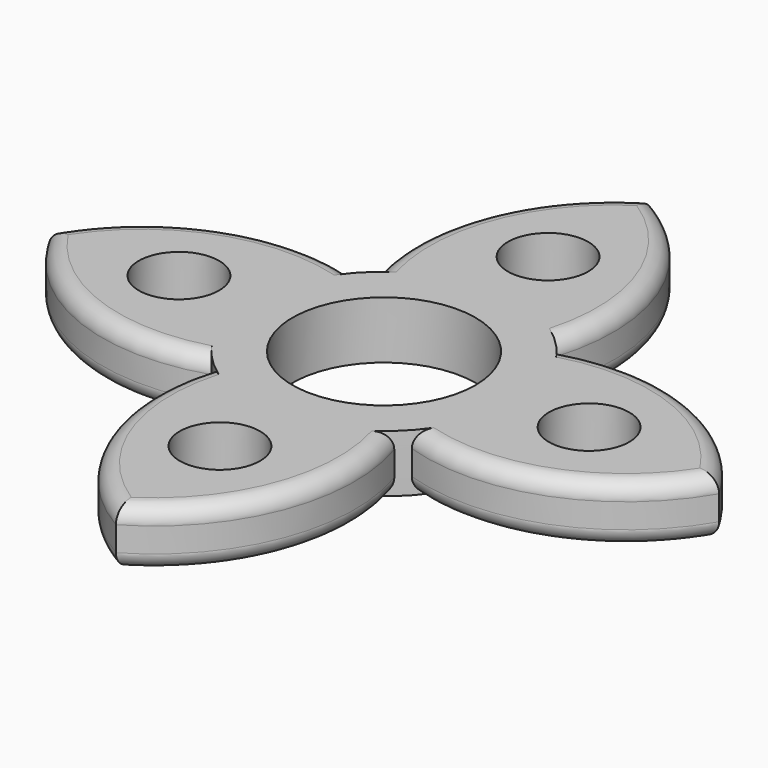
from build123d import *

# Parameters (mm, degrees)
F0_R     = 11.15
F0_R_2   = 4.9
F0_R_3   = 7.9261864564
F1_DEPTH = 7
F2_R     = 2


with BuildPart() as f1:
    # F0 (on Top) → F1 (new body)
    with BuildSketch(Plane.XY):
        with BuildLine():
            ThreePointArc((12.2001039663, -11.0155566574), (15.3414775392, -5.9011941313), (16.4373059003, 0))
            ThreePointArc((16.4373059003, 0), (15.3414775392, 5.9011941313), (12.2001039663, 11.0155566574))
            ThreePointArc((12.2001039663, 11.0155566574), (11.6229304666, 11.6229304666), (11.0155566574, 12.2001039663))
            ThreePointArc((11.0155566574, 12.2001039663), (0, 16.4373059003), (-11.0155566574, 12.2001039663))
            ThreePointArc((-11.0155566574, 12.2001039663), (-11.6229304666, 11.6229304666), (-12.2001039663, 11.0155566574))
            ThreePointArc((-12.2001039663, 11.0155566574), (-16.4373059003, 0), (-12.2001039663, -11.0155566574))
            ThreePointArc((-12.2001039663, -11.0155566574), (-11.6229304666, -11.6229304666), (-11.0155566574, -12.2001039663))
            ThreePointArc((-11.0155566574, -12.2001039663), (0, -16.4373059003), (11.0155566574, -12.2001039663))
            ThreePointArc((11.0155566574, -12.2001039663), (11.6229304666, -11.6229304666), (12.2001039663, -11.0155566574))
        make_face()
        Circle(F0_R, mode=Mode.SUBTRACT)
        with BuildLine():
            ThreePointArc((-11.0155566574, 12.2001039663), (0, 16.4373059003), (11.0155566574, 12.2001039663))
            ThreePointArc((11.0155566574, 12.2001039663), (10.5712674009, 28.4766709057), (0, 40.8610291779))
            ThreePointArc((0, 40.8610291779), (-10.5712674009, 28.4766709057), (-11.0155566574, 12.2001039663))
        make_face()
        with Locations((0, 25)):
            Circle(F0_R_2, mode=Mode.SUBTRACT)
        with BuildLine():
            ThreePointArc((0, -40.8610291779), (10.5712674009, -28.4766709057), (11.0155566574, -12.2001039663))
            ThreePointArc((11.0155566574, -12.2001039663), (0, -16.4373059003), (-11.0155566574, -12.2001039663))
            ThreePointArc((-11.0155566574, -12.2001039663), (-10.5712674009, -28.4766709057), (0, -40.8610291779))
        make_face()
        with Locations((0, -25)):
            Circle(F0_R_2, mode=Mode.SUBTRACT)
        with BuildLine():
            ThreePointArc((12.2001039663, 11.0155566574), (15.3414775392, 5.9011941313), (16.4373059003, 0))
            ThreePointArc((16.4373059003, 0), (15.3414775392, -5.9011941313), (12.2001039663, -11.0155566574))
            ThreePointArc((12.2001039663, -11.0155566574), (28.4766709057, -10.5712674009), (40.8610291779, 0))
            ThreePointArc((40.8610291779, 0), (28.4766709057, 10.5712674009), (12.2001039663, 11.0155566574))
        make_face()
        with Locations((25, 0)):
            Circle(F0_R_3, mode=Mode.SUBTRACT)
        with BuildLine():
            ThreePointArc((-12.2001039663, -11.0155566574), (-16.4373059003, 0), (-12.2001039663, 11.0155566574))
            ThreePointArc((-12.2001039663, 11.0155566574), (-28.4766709057, 10.5712674009), (-40.8610291779, 0))
            ThreePointArc((-40.8610291779, 0), (-28.4766709057, -10.5712674009), (-12.2001039663, -11.0155566574))
        make_face()
        with Locations((-25, 0)):
            Circle(F0_R_2, mode=Mode.SUBTRACT)
        with Locations((25, 0)):
            Circle(F0_R_3)
        with Locations((25, 0)):
            Circle(F0_R_2, mode=Mode.SUBTRACT)
    extrude(amount=F1_DEPTH)

    # F2
    f2_edges = [f1.edges().sort_by_distance(p)[0] for p in [
        (-10.571267, 28.476671, 7),
        (10.571267, 28.476671, 7),
        (28.476671, -10.571267, 7),
        (28.476671, 10.571267, 7),
        (10.571267, -28.476671, 7),
        (-10.571267, -28.476671, 7),
        (-28.476671, -10.571267, 7),
        (-28.476671, 10.571267, 7),
        (10.571267, 28.476671, 0),
        (-10.571267, 28.476671, 0),
        (-28.476671, 10.571267, 0),
        (-28.476671, -10.571267, 0),
        (10.571267, -28.476671, 0),
        (-10.571267, -28.476671, 0),
        (28.476671, 10.571267, 0),
        (28.476671, -10.571267, 0),
    ]]
    fillet(f2_edges, radius=F2_R)


solid = f1.part
